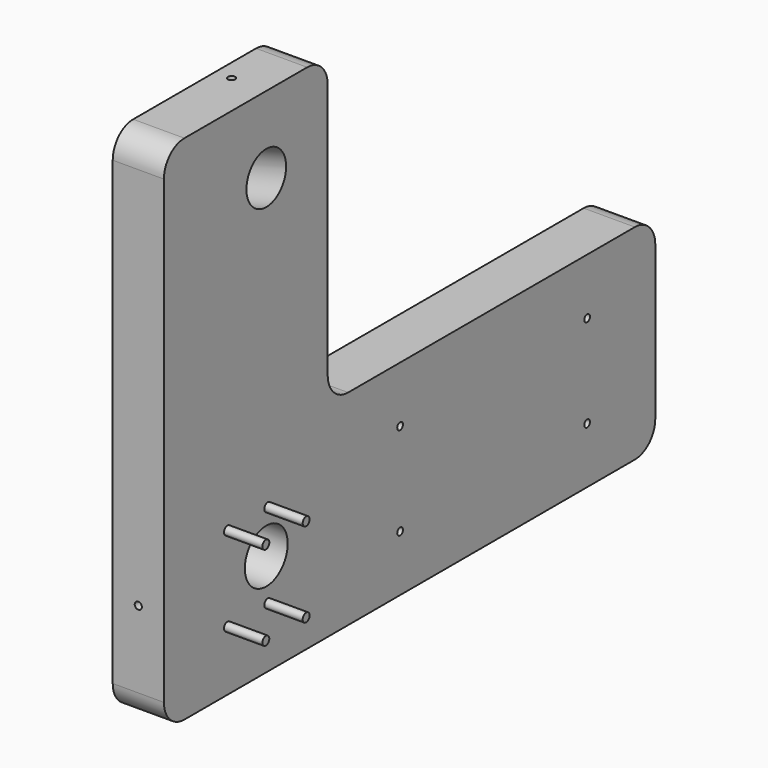
from build123d import *

# Parameters (mm, degrees)
F0_R      = 6.65
F0_R_2    = 0.889
F1_DEPTH  = 12.7
F2_R      = 1.075
F3_DEPTH  = 9.525
F4_R      = 6.35
F5_R      = 6.35
F6_R      = 6.35
F12_R     = 6.15
F14_R     = 0.889
F15_DEPTH = 15.1883232269
F16_R     = 0.889
F17_DEPTH = 25.1606906232


with BuildPart() as f1:
    # F0 (on Right) → F1 (new body)
    with BuildSketch(Plane.YZ):
        Polygon((0, 76.2), (-50.8, 76.2), (-50.8, -50.8), (101.6, -50.8), (101.6, 0), (0, 0), align=None)
        with Locations((-19.05, -25.4)):
            Circle(F0_R, mode=Mode.SUBTRACT)
        with Locations((22.4592145532, -36.9)):
            Circle(F0_R_2, mode=Mode.SUBTRACT)
        with Locations((22.4592145532, -13.9)):
            Circle(F0_R_2, mode=Mode.SUBTRACT)
        with Locations((80.4592145532, -36.9)):
            Circle(F0_R_2, mode=Mode.SUBTRACT)
        with Locations((80.4592145532, -13.9)):
            Circle(F0_R_2, mode=Mode.SUBTRACT)
    extrude(amount=F1_DEPTH)

    # F2 (on face) → F3 (join)
    with BuildSketch(Plane.YZ.offset(12.7)):
        with Locations((-31.0889787972, -14.9)):
            Circle(F2_R)
        with Locations((-18.5889787972, -14.9)):
            Circle(F2_R)
        with Locations((-18.5889787972, -35.9)):
            Circle(F2_R)
        with Locations((-31.0889787972, -35.9)):
            Circle(F2_R)
    extrude(amount=F3_DEPTH)

    # F4
    f4_edges = [f1.edges().sort_by_distance(p)[0] for p in [
        (6.35, 0, 0),
    ]]
    fillet(f4_edges, radius=F4_R)

    # F5
    f5_edges = [f1.edges().sort_by_distance(p)[0] for p in [
        (6.35, -50.8, -50.8),
        (6.35, -50.8, 76.2),
        (6.35, 101.6, -50.8),
    ]]
    fillet(f5_edges, radius=F5_R)

    # F6
    f6_edges = [f1.edges().sort_by_distance(p)[0] for p in [
        (6.35, 0, 76.2),
        (6.35, 101.6, 0),
    ]]
    fillet(f6_edges, radius=F6_R)

    # F13: sweep along a path in F9
    with BuildLine(Plane(origin=(0, -19.05, 0), x_dir=(-1, 0, 0), z_dir=(0, 1, 0))) as f13_path:
        Line((69.4630440448, 35.1738945205), (-53.2095358939, 68.0439132485))
    # F12 (on plane+point) → F13 (sweep, cut)
    with BuildSketch(Plane(origin=(66.6561511629, 0, 17.8604618747), x_dir=(0, 1, 0), z_dir=(0.9659258263, 0, 0.2588190451))):
        with Locations((-19.05, 51.9537318581)):
            Circle(F12_R)
    sweep(path=f13_path.line, mode=Mode.SUBTRACT)

    # F14 (on face) → F15 (cut, through all)
    with BuildSketch(Plane.XY.offset(76.2)):
        with Locations((4.0958291739, -19.05)):
            Circle(F14_R)
    extrude(amount=-F15_DEPTH, mode=Mode.SUBTRACT)

    # F16 (on face) → F17 (cut, through all)
    with BuildSketch(Plane.XZ.offset(50.8)):
        with Locations((6.35, -25.4)):
            Circle(F16_R)
    extrude(amount=-F17_DEPTH, mode=Mode.SUBTRACT)


solid = f1.part
